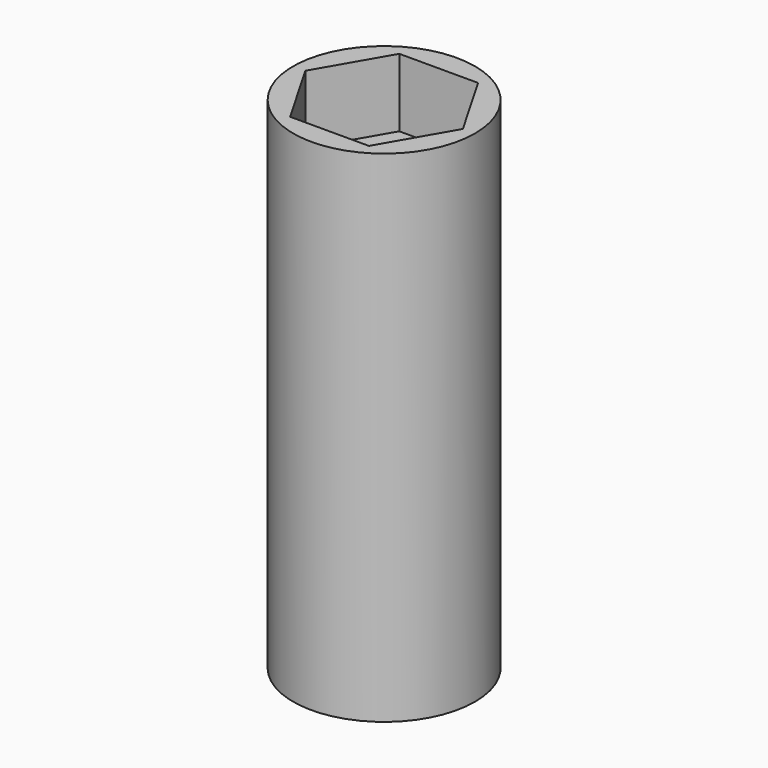
from build123d import *

# Parameters (mm, degrees)
SKETCH001_R     = 4
PAD001_DEPTH    = 22
POCKET_DEPTH    = 3
SKETCH002_R     = 1.7
POCKET001_DEPTH = 30


with BuildPart() as part:
    # Sketch001 → Pad001 (new body)
    with BuildSketch(Plane.XY):
        Circle(SKETCH001_R)
    extrude(amount=PAD001_DEPTH)

    # Sketch → Pocket (cut)
    with BuildSketch(Plane.XY.offset(22)):
        Polygon((-1.732051, 3), (1.732051, 3), (3.464102, 0), (1.732051, -3), (-1.732051, -3), (-3.464102, 0), align=None)
    extrude(amount=-POCKET_DEPTH, mode=Mode.SUBTRACT)

    # Sketch002 → Pocket001 (cut)
    with BuildSketch(Plane(origin=(0, 0, 0), x_dir=(1, 0, 0), z_dir=(0, 0, -1))):
        Circle(SKETCH002_R)
    extrude(amount=-POCKET001_DEPTH, mode=Mode.SUBTRACT)


solid = part.part
